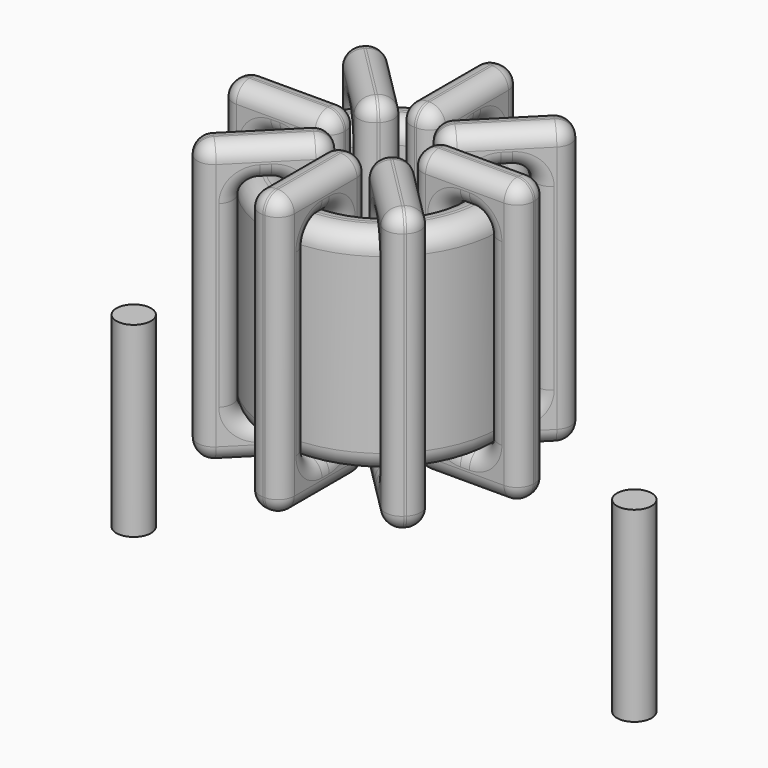
from build123d import *

# Parameters (mm, degrees)
SKETCH001_R       = 0.45
PAD001_DEPTH      = 0.45
PAD001_DEPTH_BACK = 4.4
SKETCH_R          = 2.9989
SKETCH_R_2        = 1.9177
PAD_DEPTH         = 5.5
FILLET_R          = 0.5
SKETCH003_W       = 2.8812
SKETCH003_H       = 7.3
SKETCH003_W_2     = 1.0812
SKETCH003_H_2     = 5.5
PAD002_DEPTH      = 0.45
FILLET001_R       = 0.423
SKETCH004_W       = 2.8812
SKETCH004_H       = 7.3
SKETCH004_W_2     = 1.0812
SKETCH004_H_2     = 5.5
PAD003_DEPTH      = 0.45
FILLET002_R       = 0.423
SKETCH005_W       = 2.8812
SKETCH005_H       = 7.3
SKETCH005_W_2     = 1.0812
SKETCH005_H_2     = 5.5
PAD004_DEPTH      = 0.45
FILLET003_R       = 0.423
SKETCH006_W       = 2.8812
SKETCH006_H       = 7.3
SKETCH006_W_2     = 1.0812
SKETCH006_H_2     = 5.5
PAD005_DEPTH      = 0.45
FILLET004_R       = 0.423


with BuildPart() as pad001:
    # Sketch001 → Pad001 (new body, two sides)
    with BuildSketch(Plane.XY.offset(0.95)) as pad001_sk:
        Circle(SKETCH001_R)
        with Locations((13, 0)):
            Circle(SKETCH001_R)
    extrude(amount=PAD001_DEPTH)
    extrude(pad001_sk.sketch, amount=-PAD001_DEPTH_BACK)


with BuildPart() as fillet_body:
    # Sketch → Pad (new body)
    with BuildSketch(Plane.XY.offset(1.4)):
        with Locations((6.5, 0)):
            Circle(SKETCH_R)
        with Locations((6.5, 0)):
            Circle(SKETCH_R_2, mode=Mode.SUBTRACT)
    extrude(amount=PAD_DEPTH)

    # Fillet
    fillet_edges = [fillet_body.edges().sort_by_distance(p)[0] for p in [
        (4.5823, 0, 6.9),
        (3.5011, 0, 6.9),
        (3.5011, 0, 1.4),
    ]]
    fillet(fillet_edges, radius=FILLET_R)


with BuildPart() as fillet001:
    # Sketch003 → Pad002 (new body, symmetric)
    with BuildSketch(Plane(origin=(6.5, 0, 0), x_dir=(1, 0, 0), z_dir=(0, -1, 0))):
        with Locations((-2.4583, 4.15)):
            Rectangle(SKETCH003_W, SKETCH003_H)
        with Locations((-2.4583, 4.15)):
            Rectangle(SKETCH003_W_2, SKETCH003_H_2, mode=Mode.SUBTRACT)
        with Locations((2.4583, 4.15)):
            Rectangle(SKETCH003_W, SKETCH003_H)
        with Locations((2.4583, 4.15)):
            Rectangle(SKETCH003_W_2, SKETCH003_H_2, mode=Mode.SUBTRACT)
    extrude(amount=PAD002_DEPTH, both=True)

    # Fillet001
    fillet001_edges = [fillet001.edges().sort_by_distance(p)[0] for p in [
        (4.5823, 0, 6.9),
        (4.5823, 0, 1.4),
        (4.5823, 0.45, 4.15),
        (4.5823, -0.45, 4.15),
        (2.6011, 0, 7.8),
        (5.4823, 0, 7.8),
        (4.0417, 0.45, 7.8),
        (4.0417, -0.45, 7.8),
        (5.4823, 0, 0.5),
        (5.4823, 0.45, 4.15),
        (5.4823, -0.45, 4.15),
        (8.4177, 0, 6.9),
        (9.4989, 0, 6.9),
        (8.9583, 0.45, 6.9),
        (8.9583, -0.45, 6.9),
        (9.4989, 0, 1.4),
        (9.4989, 0.45, 4.15),
        (9.4989, -0.45, 4.15),
        (7.5177, 0, 7.8),
        (10.3989, 0, 7.8),
        (8.9583, 0.45, 7.8),
        (8.9583, -0.45, 7.8),
        (10.3989, 0, 0.5),
        (10.3989, 0.45, 4.15),
        (10.3989, -0.45, 4.15),
        (3.5011, 0, 6.9),
        (4.0417, 0.45, 6.9),
        (4.0417, -0.45, 6.9),
        (8.4177, 0, 1.4),
        (8.4177, 0.45, 4.15),
        (8.4177, -0.45, 4.15),
        (8.9583, 0.45, 1.4),
        (8.9583, -0.45, 1.4),
        (7.5177, 0, 0.5),
        (8.9583, 0.45, 0.5),
        (8.9583, -0.45, 0.5),
        (7.5177, 0.45, 4.15),
        (7.5177, -0.45, 4.15),
        (2.6011, 0, 0.5),
        (4.0417, 0.45, 0.5),
        (4.0417, -0.45, 0.5),
        (2.6011, 0.45, 4.15),
        (2.6011, -0.45, 4.15),
        (3.5011, 0, 1.4),
        (3.5011, 0.45, 4.15),
        (3.5011, -0.45, 4.15),
        (4.0417, 0.45, 1.4),
        (4.0417, -0.45, 1.4),
    ]]
    fillet(fillet001_edges, radius=FILLET001_R)


with BuildPart() as fillet002:
    # Sketch004 → Pad003 (new body, symmetric)
    with BuildSketch(Plane(origin=(6.5, 0, 0), x_dir=(0.707107, 0.707107, 0), z_dir=(0.707107, -0.707107, 0))):
        with Locations((-2.4583, 4.15)):
            Rectangle(SKETCH004_W, SKETCH004_H)
        with Locations((-2.4583, 4.15)):
            Rectangle(SKETCH004_W_2, SKETCH004_H_2, mode=Mode.SUBTRACT)
        with Locations((2.4583, 4.15)):
            Rectangle(SKETCH004_W, SKETCH004_H)
        with Locations((2.4583, 4.15)):
            Rectangle(SKETCH004_W_2, SKETCH004_H_2, mode=Mode.SUBTRACT)
    extrude(amount=PAD003_DEPTH, both=True)

    # Fillet002
    fillet002_edges = [fillet002.edges().sort_by_distance(p)[0] for p in [
        (5.143981, -1.356019, 6.9),
        (5.143981, -1.356019, 1.4),
        (4.825783, -1.037821, 4.15),
        (5.462179, -1.674217, 4.15),
        (3.743061, -2.756939, 7.8),
        (5.780377, -0.719623, 7.8),
        (4.443521, -1.420083, 7.8),
        (5.079917, -2.056479, 7.8),
        (5.780377, -0.719623, 0.5),
        (5.462179, -0.401425, 4.15),
        (6.098575, -1.037821, 4.15),
        (7.856019, 1.356019, 1.4),
        (7.856019, 1.356019, 6.9),
        (7.537821, 1.674217, 4.15),
        (8.174217, 1.037821, 4.15),
        (8.620543, 2.120543, 1.4),
        (7.920083, 2.056479, 1.4),
        (8.556479, 1.420083, 1.4),
        (7.219623, 0.719623, 0.5),
        (7.219623, 0.719623, 7.8),
        (6.901425, 1.037821, 4.15),
        (7.537821, 0.401425, 4.15),
        (9.256939, 2.756939, 0.5),
        (7.920083, 2.056479, 0.5),
        (8.556479, 1.420083, 0.5),
        (4.379457, -2.120543, 6.9),
        (4.443521, -1.420083, 6.9),
        (5.079917, -2.056479, 6.9),
        (8.620543, 2.120543, 6.9),
        (7.920083, 2.056479, 6.9),
        (8.556479, 1.420083, 6.9),
        (8.302344, 2.438741, 4.15),
        (8.938741, 1.802344, 4.15),
        (9.256939, 2.756939, 7.8),
        (8.938741, 3.075137, 4.15),
        (9.575137, 2.438741, 4.15),
        (7.920083, 2.056479, 7.8),
        (8.556479, 1.420083, 7.8),
        (3.743061, -2.756939, 0.5),
        (4.443521, -1.420083, 0.5),
        (5.079917, -2.056479, 0.5),
        (3.424863, -2.438741, 4.15),
        (4.061259, -3.075137, 4.15),
        (4.379457, -2.120543, 1.4),
        (4.061259, -1.802344, 4.15),
        (4.697656, -2.438741, 4.15),
        (4.443521, -1.420083, 1.4),
        (5.079917, -2.056479, 1.4),
    ]]
    fillet(fillet002_edges, radius=FILLET002_R)


with BuildPart() as fillet003:
    # Sketch005 → Pad004 (new body, symmetric)
    with BuildSketch(Plane(origin=(6.5, 0, 0), x_dir=(0.707107, -0.707107, 0), z_dir=(-0.707107, -0.707107, 0))):
        with Locations((-2.4583, 4.15)):
            Rectangle(SKETCH005_W, SKETCH005_H)
        with Locations((-2.4583, 4.15)):
            Rectangle(SKETCH005_W_2, SKETCH005_H_2, mode=Mode.SUBTRACT)
        with Locations((2.4583, 4.15)):
            Rectangle(SKETCH005_W, SKETCH005_H)
        with Locations((2.4583, 4.15)):
            Rectangle(SKETCH005_W_2, SKETCH005_H_2, mode=Mode.SUBTRACT)
    extrude(amount=PAD004_DEPTH, both=True)

    # Fillet003
    fillet003_edges = [fillet003.edges().sort_by_distance(p)[0] for p in [
        (5.143981, 1.356019, 6.9),
        (5.143981, 1.356019, 1.4),
        (5.462179, 1.674217, 4.15),
        (4.825783, 1.037821, 4.15),
        (3.743061, 2.756939, 7.8),
        (3.743061, 2.756939, 0.5),
        (4.061259, 3.075137, 4.15),
        (3.424863, 2.438741, 4.15),
        (5.780377, 0.719623, 7.8),
        (5.079917, 2.056479, 0.5),
        (4.443521, 1.420083, 0.5),
        (7.856019, -1.356019, 6.9),
        (8.620543, -2.120543, 6.9),
        (8.556479, -1.420083, 6.9),
        (7.920083, -2.056479, 6.9),
        (8.620543, -2.120543, 1.4),
        (8.938741, -1.802344, 4.15),
        (8.302344, -2.438741, 4.15),
        (7.219623, -0.719623, 7.8),
        (9.256939, -2.756939, 7.8),
        (8.556479, -1.420083, 7.8),
        (7.920083, -2.056479, 7.8),
        (9.256939, -2.756939, 0.5),
        (9.575137, -2.438741, 4.15),
        (8.938741, -3.075137, 4.15),
        (4.379457, 2.120543, 6.9),
        (5.079917, 2.056479, 6.9),
        (4.443521, 1.420083, 6.9),
        (7.856019, -1.356019, 1.4),
        (8.174217, -1.037821, 4.15),
        (7.537821, -1.674217, 4.15),
        (8.556479, -1.420083, 1.4),
        (7.920083, -2.056479, 1.4),
        (7.219623, -0.719623, 0.5),
        (8.556479, -1.420083, 0.5),
        (7.920083, -2.056479, 0.5),
        (7.537821, -0.401425, 4.15),
        (6.901425, -1.037821, 4.15),
        (5.780377, 0.719623, 0.5),
        (6.098575, 1.037821, 4.15),
        (5.462179, 0.401425, 4.15),
        (5.079917, 2.056479, 7.8),
        (4.443521, 1.420083, 7.8),
        (4.379457, 2.120543, 1.4),
        (4.697656, 2.438741, 4.15),
        (4.061259, 1.802344, 4.15),
        (5.079917, 2.056479, 1.4),
        (4.443521, 1.420083, 1.4),
    ]]
    fillet(fillet003_edges, radius=FILLET003_R)


with BuildPart() as fillet004:
    # Sketch006 → Pad005 (new body, symmetric)
    with BuildSketch(Plane.YZ.offset(6.5)):
        with Locations((-2.4583, 4.15)):
            Rectangle(SKETCH006_W, SKETCH006_H)
        with Locations((-2.4583, 4.15)):
            Rectangle(SKETCH006_W_2, SKETCH006_H_2, mode=Mode.SUBTRACT)
        with Locations((2.4583, 4.15)):
            Rectangle(SKETCH006_W, SKETCH006_H)
        with Locations((2.4583, 4.15)):
            Rectangle(SKETCH006_W_2, SKETCH006_H_2, mode=Mode.SUBTRACT)
    extrude(amount=PAD005_DEPTH, both=True)

    # Fillet004
    fillet004_edges = [fillet004.edges().sort_by_distance(p)[0] for p in [
        (6.5, -1.9177, 6.9),
        (6.5, -1.9177, 1.4),
        (6.05, -1.9177, 4.15),
        (6.95, -1.9177, 4.15),
        (6.5, -3.8989, 7.8),
        (6.5, -1.0177, 7.8),
        (6.05, -2.4583, 7.8),
        (6.95, -2.4583, 7.8),
        (6.5, -1.0177, 0.5),
        (6.05, -1.0177, 4.15),
        (6.95, -1.0177, 4.15),
        (6.5, 1.9177, 6.9),
        (6.5, 2.9989, 6.9),
        (6.05, 2.4583, 6.9),
        (6.95, 2.4583, 6.9),
        (6.5, 2.9989, 1.4),
        (6.05, 2.9989, 4.15),
        (6.95, 2.9989, 4.15),
        (6.5, 1.0177, 7.8),
        (6.5, 3.8989, 7.8),
        (6.05, 2.4583, 7.8),
        (6.95, 2.4583, 7.8),
        (6.5, 3.8989, 0.5),
        (6.05, 3.8989, 4.15),
        (6.95, 3.8989, 4.15),
        (6.5, -2.9989, 6.9),
        (6.05, -2.4583, 6.9),
        (6.95, -2.4583, 6.9),
        (6.5, 1.9177, 1.4),
        (6.05, 1.9177, 4.15),
        (6.95, 1.9177, 4.15),
        (6.05, 2.4583, 1.4),
        (6.95, 2.4583, 1.4),
        (6.5, 1.0177, 0.5),
        (6.05, 2.4583, 0.5),
        (6.95, 2.4583, 0.5),
        (6.05, 1.0177, 4.15),
        (6.95, 1.0177, 4.15),
        (6.5, -3.8989, 0.5),
        (6.05, -2.4583, 0.5),
        (6.95, -2.4583, 0.5),
        (6.05, -3.8989, 4.15),
        (6.95, -3.8989, 4.15),
        (6.5, -2.9989, 1.4),
        (6.05, -2.9989, 4.15),
        (6.95, -2.9989, 4.15),
        (6.05, -2.4583, 1.4),
        (6.95, -2.4583, 1.4),
    ]]
    fillet(fillet004_edges, radius=FILLET004_R)


solid = Compound([pad001.part, fillet_body.part, fillet001.part, fillet002.part, fillet003.part, fillet004.part])
